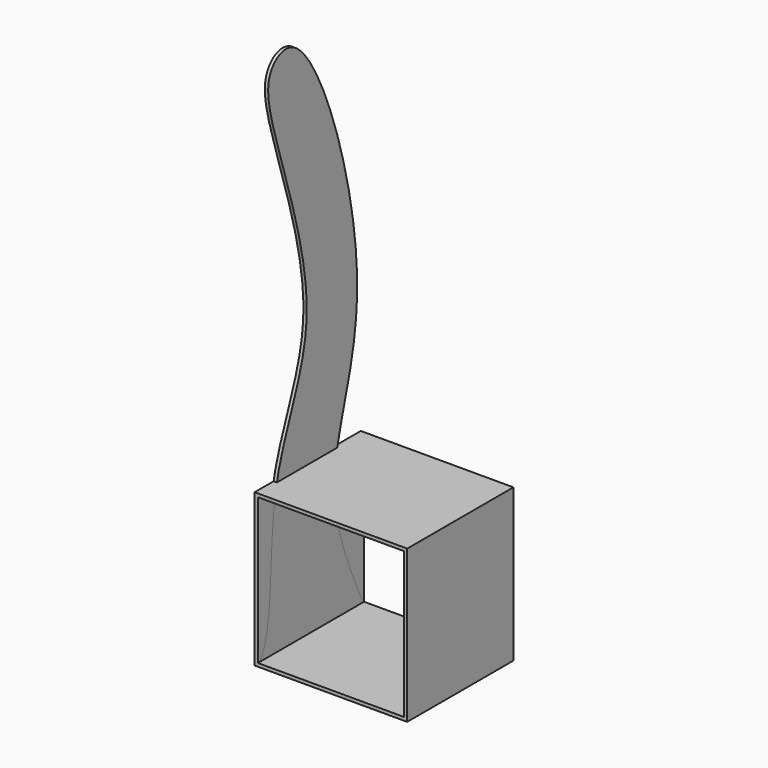
from build123d import *

# Parameters (mm, degrees)
F0_W     = 292.1
F0_H     = 292.1
F0_W_2   = 279.4
F0_H_2   = 279.4
F1_DEPTH = 254
F3_DEPTH = 6.35


with BuildPart() as f1:
    # F0 (on Front) → F1 (new body)
    with BuildSketch(Plane.XZ):
        with Locations((146.05, 146.05)):
            Rectangle(F0_W, F0_H)
        with Locations((146.05, 146.05)):
            Rectangle(F0_W_2, F0_H_2, mode=Mode.SUBTRACT)
    extrude(amount=F1_DEPTH)


with BuildPart() as f3:
    # F2 (on Right) → F3 (new body)
    with BuildSketch(Plane.YZ):
        with BuildLine():
            Line((-254, 0), (0, 0))
            add(Edge.make_bspline(
                [(0, 0), (-36.0503984099, 79.1729025419), (-115.4896744449, 250.8719772978), (48.9495967656, 514.869301843), (-126.0922284159, 1050.163664357), (-235.630344875, 998.264986505), (-227.1170532983, 890.7584496977), (-79.6309588325, 524.3710528786), (-246.8962504388, 308.4478256221), (-213.2703128225, 45.9470044456), (-254, 0)],
                knots=[0, 0, 0, 0, 0.1167142172, 0.2476328114, 0.4104536784, 0.4656449295, 0.5372342196, 0.6790365993, 0.8021897874, 0.9262693928, 0.9262693928, 0.9262693928, 0.9262693928], degree=3))
        make_face()
    extrude(amount=F3_DEPTH)


solid = Compound([f1.part, f3.part])
